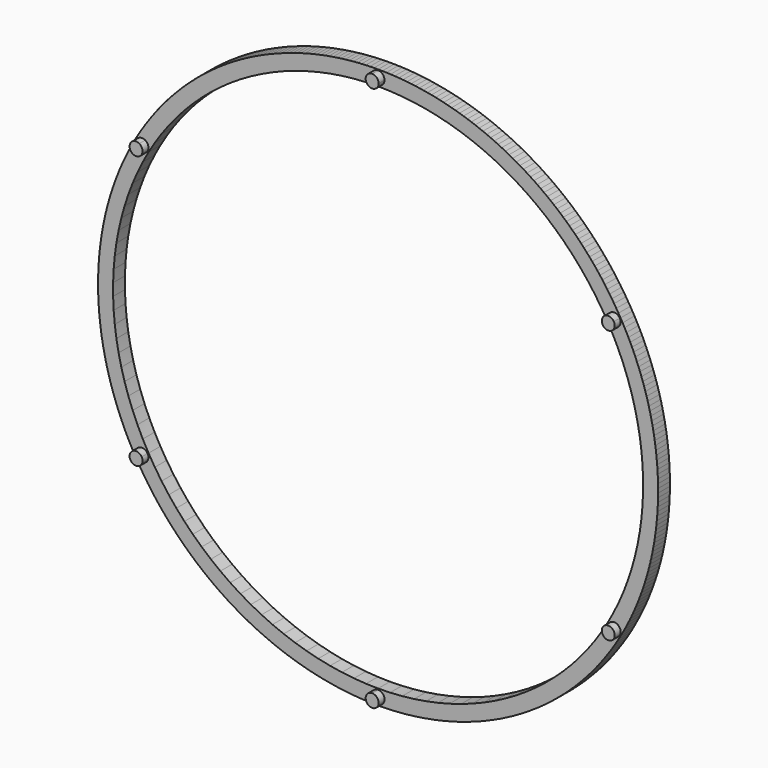
from build123d import *

# Parameters (mm, degrees)
F0_R     = 192.145
F0_R_2   = 181.985
F1_DEPTH = 10.16
F3_DEPTH = 5.08
F4_COUNT = 6
F4_ANGLE = 300


with BuildPart() as f1:
    # F0 (on Front) → F1 (new body)
    with BuildSketch(Plane.XZ):
        Circle(F0_R)
        Circle(F0_R_2, mode=Mode.SUBTRACT)
    extrude(amount=F1_DEPTH)

    # F2 (on face) → F3 (join)
    with BuildSketch(Plane.XZ.offset(10.16)):
        with BuildLine():
            Line((0, 182.62), (0, 191.51))
            ThreePointArc((0, 191.51), (-4.445, 187.065), (0, 182.62))
        make_face()
        with BuildLine():
            ThreePointArc((4.445, 187.065), (3.14309, 190.20809), (0, 191.51))
            Line((0, 191.51), (0, 182.62))
            ThreePointArc((0, 182.62), (3.14309, 183.92191), (4.445, 187.065))
        make_face()
    extrude(amount=F3_DEPTH)


with BuildPart() as f4_1:
    # F4: instance of F1
    add(f1.part.rotate(Axis((0, -10.16, 0), (0, -1, 0)), 1 * F4_ANGLE / (F4_COUNT - 1)))


with BuildPart() as f4_2:
    # F4: instance of F1
    add(f1.part.rotate(Axis((0, -10.16, 0), (0, -1, 0)), 2 * F4_ANGLE / (F4_COUNT - 1)))


with BuildPart() as f4_3:
    # F4: instance of F1
    add(f1.part.rotate(Axis((0, -10.16, 0), (0, -1, 0)), 3 * F4_ANGLE / (F4_COUNT - 1)))


with BuildPart() as f4_4:
    # F4: instance of F1
    add(f1.part.rotate(Axis((0, -10.16, 0), (0, -1, 0)), 4 * F4_ANGLE / (F4_COUNT - 1)))


with BuildPart() as f4_5:
    # F4: instance of F1
    add(f1.part.rotate(Axis((0, -10.16, 0), (0, -1, 0)), 5 * F4_ANGLE / (F4_COUNT - 1)))


solid = Compound([f1.part, f4_1.part, f4_2.part, f4_3.part, f4_4.part, f4_5.part])
